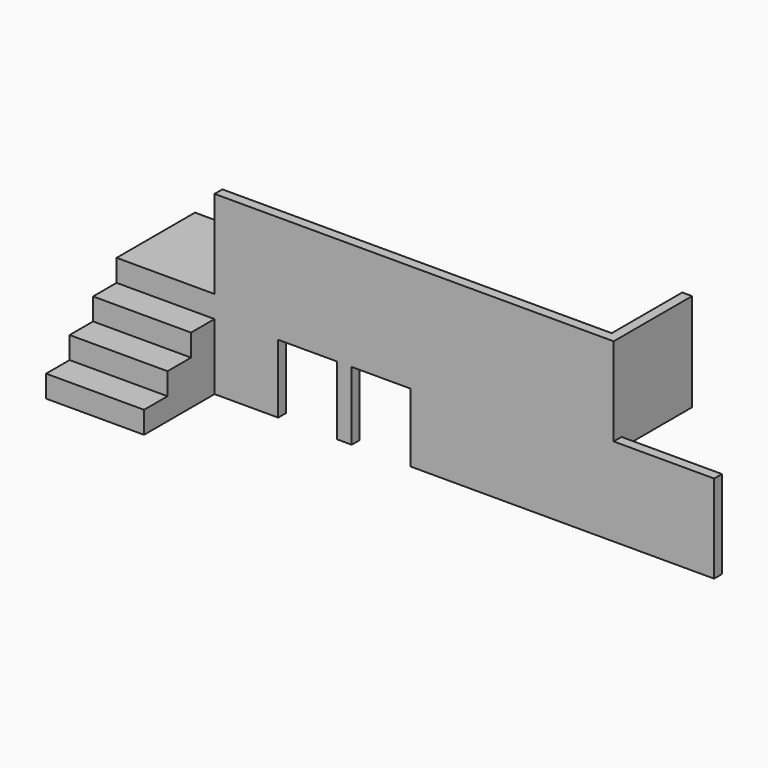
from build123d import *

# Parameters (mm, degrees)
F0_W      = 5156.2
F0_H      = 1016
F1_DEPTH  = 101.6
F3_DEPTH  = 1016
F5_DEPTH  = 101.6
F7_DEPTH  = 685.8
F9_DEPTH  = 228.6
F11_DEPTH = 228.6
F13_DEPTH = 914.4
F14_W     = 101.6
F14_H     = 914.4
F15_DEPTH = 812.8
F16_W     = 2895.6
F16_H     = 914.4
F17_DEPTH = 101.6
F18_W     = 609.6
F18_H     = 914.4
F19_DEPTH = 914.401
F20_W     = 609.6
F20_H     = 101.6
F21_DEPTH = 914.4


with BuildPart() as f1:
    # F0 (on Top) → F1 (new body)
    with BuildSketch(Plane.XY):
        Rectangle(F0_W, F0_H)
    extrude(amount=-F1_DEPTH)

    # F2 (on face) → F3 (join)
    with BuildSketch(Plane(origin=(-2578.1, 0, 0), x_dir=(0, -1, 0), z_dir=(-1, 0, 0))):
        Polygon((508, -228.6), (508, 0), (203.2, 0), (203.2, -914.4), (1422.4, -914.4), (1422.4, -685.8), (1117.6, -685.8), (1117.6, -457.2), (812.8, -457.2), (812.8, -228.6), align=None)
    extrude(amount=-F3_DEPTH)

    # F4 (on face) → F5 (join)
    with BuildSketch(Plane.XZ.offset(508)):
        Polygon((723.9, -101.6), (-1562.1, -101.6), (-1562.1, -228.6), (-1562.1, -914.4), (-901.7, -914.4), (-901.7, -203.2), (-292.1, -203.2), (-292.1, -914.4), (-139.7, -914.4), (-139.7, -203.2), (469.9, -203.2), (469.9, -914.4), (723.9, -914.4), align=None)
    extrude(amount=-F5_DEPTH)

    # F6 (on face) → F7 (join, through all)
    with BuildSketch(Plane.XY.offset(-228.6)):
        Polygon((-952.5, -508), (-1562.1, -508), (-1562.1, -1422.4), align=None)
    extrude(amount=-F7_DEPTH)

    # F8 (on face) → F9 (cut, through all)
    with BuildSketch(Plane.XY.offset(-228.6)):
        Polygon((-1155.7, -812.8), (-1562.1, -812.8), (-1562.1, -1422.4), align=None)
    extrude(amount=-F9_DEPTH, mode=Mode.SUBTRACT)

    # F10 (on face) → F11 (cut, through all)
    with BuildSketch(Plane.XY.offset(-457.2)):
        Polygon((-1358.9, -1117.6), (-1562.1, -1117.6), (-1562.1, -1422.4), align=None)
    extrude(amount=-F11_DEPTH, mode=Mode.SUBTRACT)

    # F12 (on face) → F13 (join)
    with BuildSketch(Plane.XY):
        Polygon((-952.5, -406.4), (-952.5, -508), (2578.1, -508), (2578.1, -406.4), (2578.1, 508), (2476.5, 508), (2476.5, -406.4), align=None)
    extrude(amount=F13_DEPTH)

    # F14 (on face) → F15 (join, through all)
    with BuildSketch(Plane(origin=(0, 0, -101.6), x_dir=(1, 0, 0), z_dir=(0, 0, -1))):
        with Locations((622.3, -50.8)):
            Rectangle(F14_W, F14_H)
    extrude(amount=F15_DEPTH)

    # F16 (on face) → F17 (join)
    with BuildSketch(Plane.XZ.offset(508)):
        with Locations((2171.7, -457.2)):
            Rectangle(F16_W, F16_H)
    extrude(amount=-F17_DEPTH)

    # F18 (on face) → F19 (cut, through all)
    with BuildSketch(Plane.XY):
        with Locations((-1257.3, -965.2)):
            Rectangle(F18_W, F18_H)
    extrude(amount=-F19_DEPTH, mode=Mode.SUBTRACT)

    # F20 (on face) → F21 (join, through all)
    with BuildSketch(Plane.XY):
        with Locations((-1257.3, -457.2)):
            Rectangle(F20_W, F20_H)
    extrude(amount=F21_DEPTH)


solid = f1.part
